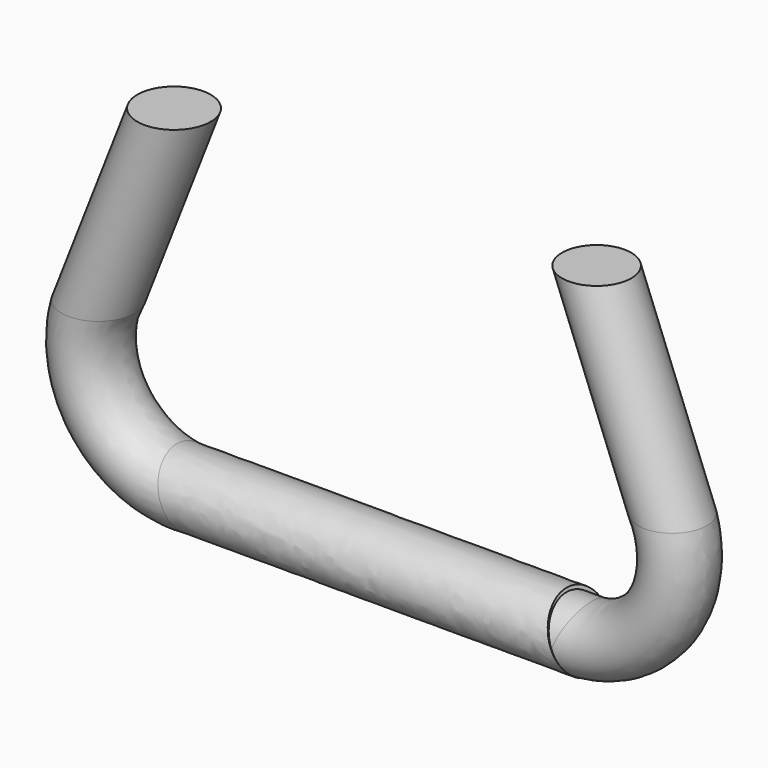
from build123d import *

# Parameters (mm, degrees)
F3_R = 13.525888
F6_R = 14.341105


with BuildPart() as f4:
    # F4: sweep along a path in F0
    with BuildLine(Plane.XZ) as f4_path:
        Line((83.572848, 50.80382), (113.103379, -24.645173))
        ThreePointArc((113.103379, -24.645173), (109.002527, -60.814275), (76.816029, -77.815755))
        Line((76.816029, -77.815755), (-75.418225, -77.815755))
    # F3 (on face) → F4 (sweep)
    with BuildSketch(Plane.XY.offset(50.80382)):
        with Locations((83.679736, -1.200276)):
            Circle(F3_R)
    sweep(path=f4_path.line)

    # F7: sweep along a path in F0
    with BuildLine(Plane.XZ) as f7_path:
        Line((-82.175045, 50.80382), (-111.705575, -24.645173))
        ThreePointArc((-111.705575, -24.645173), (-107.604723, -60.814275), (-75.418225, -77.815755))
        Line((-75.418225, -77.815755), (76.816029, -77.815755))
    # F6 (on face) → F7 (sweep)
    with BuildSketch(Plane.XY.offset(50.80382)):
        with Locations((-81.857372, -0.594393)):
            Circle(F6_R)
    sweep(path=f7_path.line)


solid = f4.part
